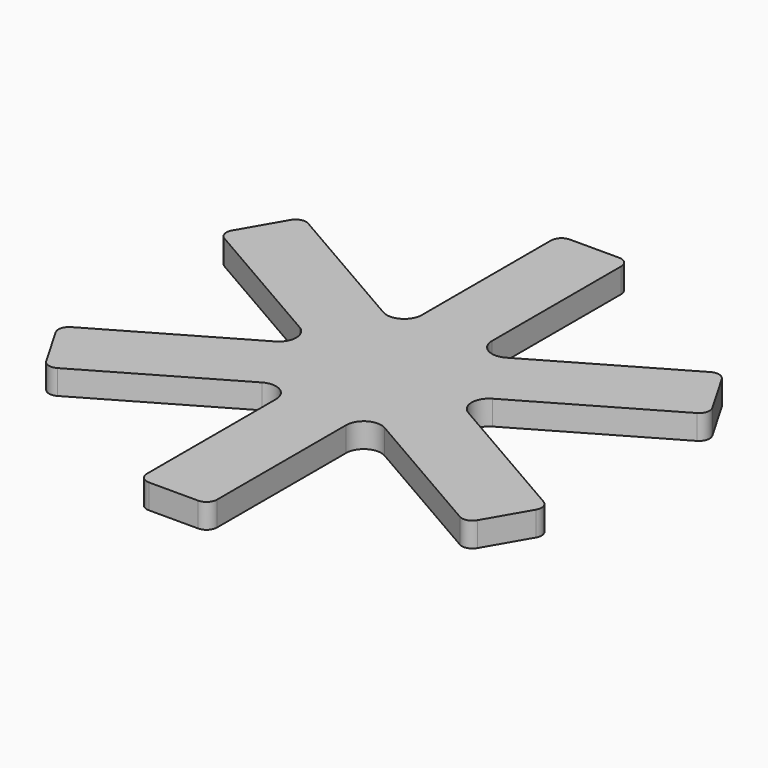
from build123d import *

# Parameters (mm, degrees)
F1_DEPTH = 7
F2_R     = 3
F3_R     = 3
F4_R     = 5


with BuildPart() as f1:
    # F0 (on Top) → F1 (new body)
    with BuildSketch(Plane.XY):
        Polygon((-15.407504, 95.992884), (-35.407504, 95.992884), (-35.407504, 38.313392), (-85.35941, 67.153138), (-95.35941, 49.83263), (-45.407504, 20.992884), (-95.35941, -7.846862), (-85.35941, -25.16737), (-35.407504, 3.672376), (-35.407504, -54.007116), (-15.407504, -54.007116), (-15.407504, 3.672376), (34.544401, -25.16737), (44.544401, -7.846862), (-5.407504, 20.992884), (44.544401, 49.83263), (34.544401, 67.153138), (-15.407504, 38.313392), align=None)
    extrude(amount=F1_DEPTH)

    # F2
    f2_edges = [f1.edges().sort_by_distance(p)[0] for p in [
        (-35.407504, -54.007116, 3.5),
        (-15.407504, -54.007116, 3.5),
        (34.544401, -25.16737, 3.5),
        (44.544401, -7.846862, 3.5),
        (44.544401, 49.83263, 3.5),
        (34.544401, 67.153138, 3.5),
        (-85.35941, -25.16737, 3.5),
        (-95.35941, -7.846862, 3.5),
        (-85.35941, 67.153138, 3.5),
        (-95.35941, 49.83263, 3.5),
        (-35.407504, 95.992884, 3.5),
    ]]
    fillet(f2_edges, radius=F2_R)

    # F3
    f3_edges = [f1.edges().sort_by_distance(p)[0] for p in [
        (-15.407504, 95.992884, 3.5),
    ]]
    fillet(f3_edges, radius=F3_R)

    # F4
    f4_edges = [f1.edges().sort_by_distance(p)[0] for p in [
        (-35.407504, 38.313392, 3.5),
        (-15.407504, 38.313392, 3.5),
        (-5.407504, 20.992884, 3.5),
        (-45.407504, 20.992884, 3.5),
        (-35.407504, 3.672376, 3.5),
        (-15.407504, 3.672376, 3.5),
    ]]
    fillet(f4_edges, radius=F4_R)


solid = f1.part
